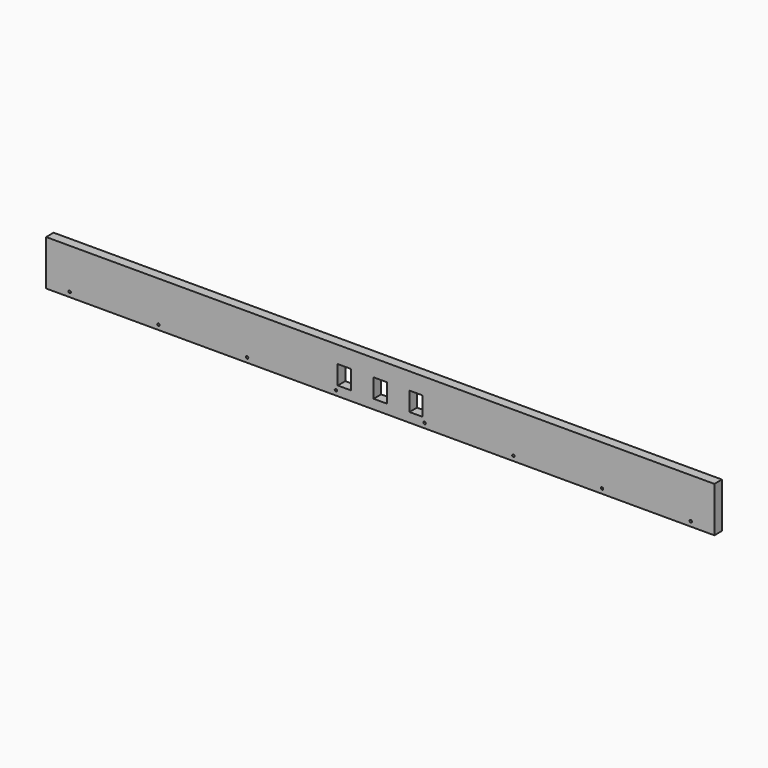
from build123d import *

# Parameters (mm, degrees)
F1_DEPTH       = 2
F2_D           = 0.5
F2_CSINK_D     = 1
F2_CSINK_ANGLE = 90
F0_W           = 2.8
F0_H           = 2
F3_DEPTH       = 2


with BuildPart() as f1:
    # F0 (on Front) → F1 (new body)
    with BuildSketch(Plane.XZ):
        Polygon((68.5272171855, 15.8228288673), (-73.0727828145, 15.8228288673), (-73.0727828145, 6.2228288673), (-11.2727828145, 6.2228288673), (-11.2727828145, 8.2228288673), (-11.2727828145, 12.2228288673), (-8.4727828145, 12.2228288673), (-8.4727828145, 8.2228288673), (-8.4727828145, 6.2228288673), (-3.6727828145, 6.2228288673), (-3.6727828145, 8.2228288673), (-3.6727828145, 12.2228288673), (-0.8727828145, 12.2228288673), (-0.8727828145, 8.2228288673), (-0.8727828145, 6.2228288673), (3.9272171855, 6.2228288673), (3.9272171855, 8.2228288673), (3.9272171855, 12.2228288673), (6.7272171855, 12.2228288673), (6.7272171855, 8.2228288673), (6.7272171855, 6.2228288673), (68.5272171855, 6.2228288673), align=None)
    extrude(amount=F1_DEPTH)

    # F2 (through all)
    with Locations(Plane(origin=(0, 0, 0), x_dir=(1, 0, 0), z_dir=(0, 1, 0))):
        with Locations((63.5272171855, -7.2228288673), (44.7272171855, -7.2228288673), (25.9272171855, -7.2228288673), (7.1272171855, -7.2228288673), (-11.6727828145, -7.2228288673), (-30.4727828145, -7.2228288673), (-49.2727828145, -7.2228288673), (-68.0727828145, -7.2228288673)):
            CounterSinkHole(F2_D / 2, F2_CSINK_D / 2, counter_sink_angle=F2_CSINK_ANGLE)

    # F0 (on Front) → F3 (join)
    with BuildSketch(Plane.XZ):
        with Locations((-9.8727828145, 7.2228288673)):
            Rectangle(F0_W, F0_H)
        with Locations((-2.2727828145, 7.2228288673)):
            Rectangle(F0_W, F0_H)
        with Locations((5.3272171855, 7.2228288673)):
            Rectangle(F0_W, F0_H)
    extrude(amount=F3_DEPTH)


solid = f1.part
